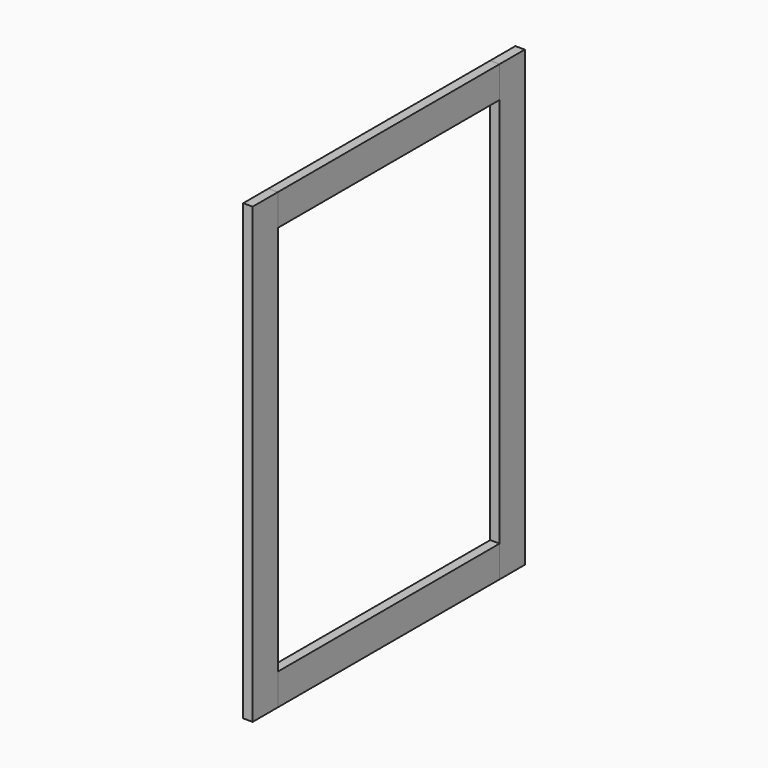
from build123d import *

# Parameters (mm, degrees)
F0_W     = 63.5
F0_H     = 914.4
F1_DEPTH = 19.05
F2_W     = 63.5
F2_H     = 914.4
F3_DEPTH = 19.05
F4_W     = 19.05
F4_H     = 63.5
F5_DEPTH = 558.8
F6_W     = 19.05
F6_H     = 63.5
F7_DEPTH = 558.8


with BuildPart() as f1:
    # F0 (on Right) → F1 (new body)
    with BuildSketch(Plane.YZ):
        with Locations((31.75, 457.2)):
            Rectangle(F0_W, F0_H)
    extrude(amount=F1_DEPTH)


with BuildPart() as f3:
    # F2 (on Right) → F3 (new body)
    with BuildSketch(Plane.YZ):
        with Locations((654.05, 457.2)):
            Rectangle(F2_W, F2_H)
    extrude(amount=F3_DEPTH)


with BuildPart() as f5:
    # F4 (on face) → F5 (new body, through all)
    with BuildSketch(Plane(origin=(0, 63.5, 0), x_dir=(-1, 0, 0), z_dir=(0, 1, 0))):
        with Locations((-9.525, 882.65)):
            Rectangle(F4_W, F4_H)
    extrude(amount=F5_DEPTH)


with BuildPart() as f7:
    # F6 (on face) → F7 (new body, through all)
    with BuildSketch(Plane(origin=(0, 63.5, 0), x_dir=(-1, 0, 0), z_dir=(0, 1, 0))):
        with Locations((-9.525, 31.75)):
            Rectangle(F6_W, F6_H)
    extrude(amount=F7_DEPTH)


solid = Compound([f1.part, f3.part, f5.part, f7.part])
